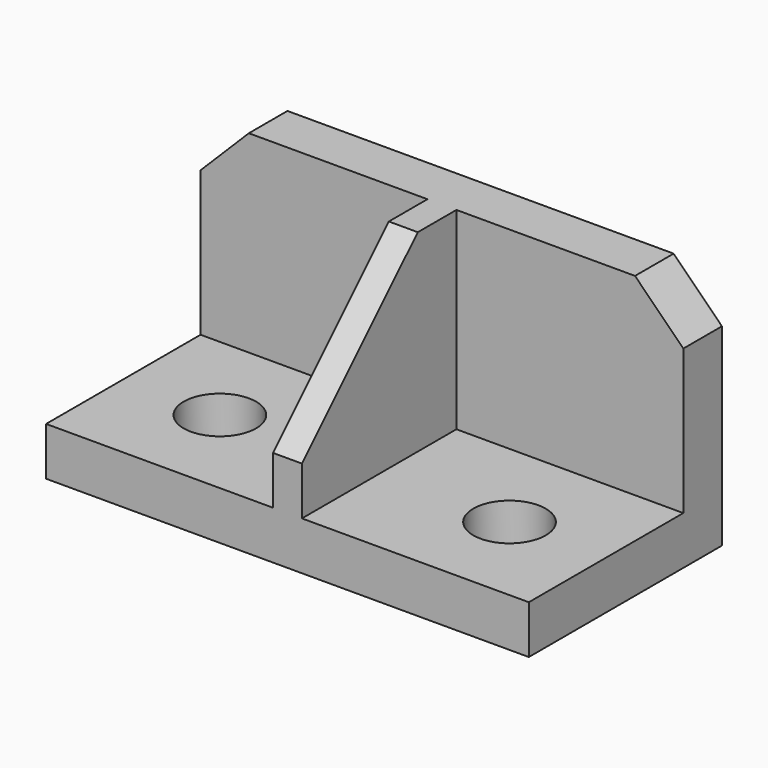
from build123d import *

# Parameters (mm, degrees)
F0_W     = 100
F0_H     = 50
F1_DEPTH = 50
F2_W     = 47
F2_H     = 40
F3_DEPTH = 40
F4_SIZE  = 30
F5_R     = 7.5
F6_DEPTH = 10.001
F7_SIZE  = 10


with BuildPart() as f1:
    # F0 (on Front) → F1 (new body)
    with BuildSketch(Plane.XZ):
        with Locations((50, 25)):
            Rectangle(F0_W, F0_H)
    extrude(amount=F1_DEPTH)

    # F2 (on face) → F3 (cut)
    with BuildSketch(Plane.XZ.offset(50)):
        with Locations((23.5, 30)):
            Rectangle(F2_W, F2_H)
        with Locations((76.5, 30)):
            Rectangle(F2_W, F2_H)
    extrude(amount=-F3_DEPTH, mode=Mode.SUBTRACT)

    # F4
    f4_edges = [f1.edges().sort_by_distance(p)[0] for p in [
        (50, -50, 50),
    ]]
    chamfer(f4_edges, length=F4_SIZE)

    # F5 (on face) → F6 (cut, through all)
    with BuildSketch(Plane.XY.offset(10)):
        with Locations((20, -30)):
            Circle(F5_R)
        with Locations((80, -30)):
            Circle(F5_R)
    extrude(amount=-F6_DEPTH, mode=Mode.SUBTRACT)

    # F7
    f7_edges = [f1.edges().sort_by_distance(p)[0] for p in [
        (100, -5, 50),
        (0, -5, 50),
    ]]
    chamfer(f7_edges, length=F7_SIZE)


solid = f1.part
